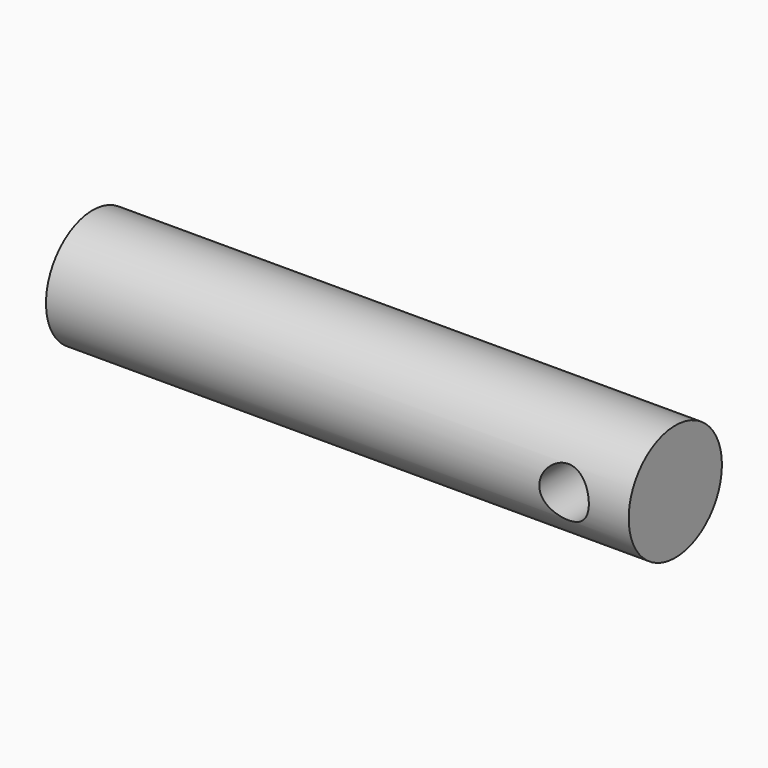
from build123d import *

# Parameters (mm, degrees)
F0_R     = 12.7
F1_DEPTH = 63.5
F2_R     = 5.402253
F3_DEPTH = 24.13


with BuildPart() as f1:
    # F0 (on Right) → F1 (new body, symmetric)
    with BuildSketch(Plane.YZ):
        Circle(F0_R)
    extrude(amount=F1_DEPTH, both=True)

    # F2 (on Front) → F3 (cut, symmetric)
    with BuildSketch(Plane.XZ):
        with Locations((49.410507, 0)):
            Circle(F2_R)
    extrude(amount=F3_DEPTH, both=True, mode=Mode.SUBTRACT)


solid = f1.part
